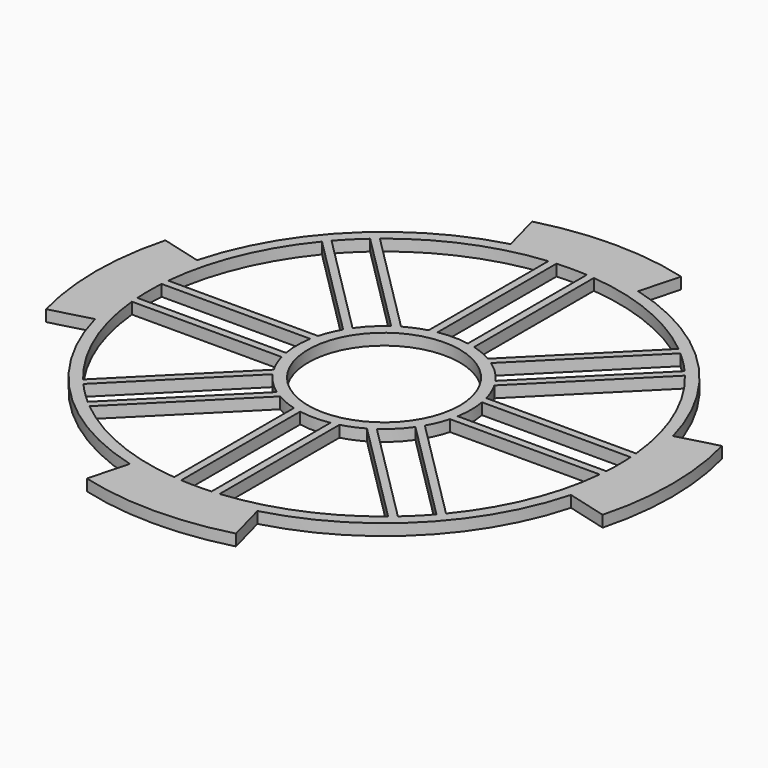
from build123d import *

# Parameters (mm, degrees)
F0_R     = 10
F1_DEPTH = 1.5


with BuildPart() as f1:
    # F0 (on Top) → F1 (new body)
    with BuildSketch(Plane.XY):
        with BuildLine():
            Line((-31.392589, 8.411619), (-36.705181, 9.835124))
            ThreePointArc((-36.705181, 9.835124), (-38, 0), (-36.705181, -9.835124))
            Line((-36.705181, -9.835124), (-31.392589, -8.411619))
            ThreePointArc((-31.392589, -8.411619), (-22.98097, -22.98097), (-8.411619, -31.392589))
            Line((-8.411619, -31.392589), (-9.835124, -36.705181))
            ThreePointArc((-9.835124, -36.705181), (0, -38), (9.835124, -36.705181))
            Line((9.835124, -36.705181), (8.411619, -31.392589))
            ThreePointArc((8.411619, -31.392589), (22.98097, -22.98097), (31.392589, -8.411619))
            Line((31.392589, -8.411619), (36.705181, -9.835124))
            ThreePointArc((36.705181, -9.835124), (38, 0), (36.705181, 9.835124))
            Line((36.705181, 9.835124), (31.392589, 8.411619))
            ThreePointArc((31.392589, 8.411619), (22.98097, 22.98097), (8.411619, 31.392589))
            Line((8.411619, 31.392589), (9.835124, 36.705181))
            ThreePointArc((9.835124, 36.705181), (0, 38), (-9.835124, 36.705181))
            Line((-9.835124, 36.705181), (-8.411619, 31.392589))
            ThreePointArc((-8.411619, 31.392589), (-22.98097, 22.98097), (-31.392589, 8.411619))
        make_face()
        with BuildLine():
            Line((-3, -11.101802), (-3, -30.854497))
            ThreePointArc((-3, -30.854497), (-11.863186, -28.640266), (-19.696104, -23.938745))
            Line((-19.696104, -23.938745), (-5.728839, -9.97148))
            ThreePointArc((-5.728839, -9.97148), (-4.400859, -10.624615), (-3, -11.101802))
        make_face(mode=Mode.SUBTRACT)
        with BuildLine():
            ThreePointArc((-23.938745, -19.696104), (-28.640266, -11.863186), (-30.854497, -3))
            Line((-30.854497, -3), (-11.101802, -3))
            ThreePointArc((-11.101802, -3), (-10.624615, -4.400859), (-9.97148, -5.728839))
            Line((-9.97148, -5.728839), (-23.938745, -19.696104))
        make_face(mode=Mode.SUBTRACT)
        with BuildLine():
            ThreePointArc((-20.460429, -23.288856), (-21.92031, -21.92031), (-23.288856, -20.460429))
            Line((-23.288856, -20.460429), (-9.422022, -6.593595))
            ThreePointArc((-9.422022, -6.593595), (-8.131728, -8.131728), (-6.593595, -9.422022))
            Line((-6.593595, -9.422022), (-20.460429, -23.288856))
        make_face(mode=Mode.SUBTRACT)
        with BuildLine():
            ThreePointArc((2, -30.935417), (0, -31), (-2, -30.935417))
            Line((-2, -30.935417), (-2, -11.324752))
            ThreePointArc((-2, -11.324752), (0, -11.5), (2, -11.324752))
            Line((2, -11.324752), (2, -30.935417))
        make_face(mode=Mode.SUBTRACT)
        with BuildLine():
            ThreePointArc((19.696104, -23.938745), (11.863186, -28.640266), (3, -30.854497))
            Line((3, -30.854497), (3, -11.101802))
            ThreePointArc((3, -11.101802), (4.400859, -10.624615), (5.728839, -9.97148))
            Line((5.728839, -9.97148), (19.696104, -23.938745))
        make_face(mode=Mode.SUBTRACT)
        with BuildLine():
            ThreePointArc((23.288856, -20.460429), (21.92031, -21.92031), (20.460429, -23.288856))
            Line((20.460429, -23.288856), (6.593595, -9.422022))
            ThreePointArc((6.593595, -9.422022), (8.131728, -8.131728), (9.422022, -6.593595))
            Line((9.422022, -6.593595), (23.288856, -20.460429))
        make_face(mode=Mode.SUBTRACT)
        with BuildLine():
            Line((11.101802, -3), (30.854497, -3))
            ThreePointArc((30.854497, -3), (28.640266, -11.863186), (23.938745, -19.696104))
            Line((23.938745, -19.696104), (9.97148, -5.728839))
            ThreePointArc((9.97148, -5.728839), (10.624615, -4.400859), (11.101802, -3))
        make_face(mode=Mode.SUBTRACT)
        with BuildLine():
            ThreePointArc((-30.935417, -2), (-31, 0), (-30.935417, 2))
            Line((-30.935417, 2), (-11.324752, 2))
            ThreePointArc((-11.324752, 2), (-11.5, 0), (-11.324752, -2))
            Line((-11.324752, -2), (-30.935417, -2))
        make_face(mode=Mode.SUBTRACT)
        with BuildLine():
            Line((-11.101802, 3), (-30.854497, 3))
            ThreePointArc((-30.854497, 3), (-28.640266, 11.863186), (-23.938745, 19.696104))
            Line((-23.938745, 19.696104), (-9.97148, 5.728839))
            ThreePointArc((-9.97148, 5.728839), (-10.624615, 4.400859), (-11.101802, 3))
        make_face(mode=Mode.SUBTRACT)
        with BuildLine():
            ThreePointArc((-23.288856, 20.460429), (-21.92031, 21.92031), (-20.460429, 23.288856))
            Line((-20.460429, 23.288856), (-6.593595, 9.422022))
            ThreePointArc((-6.593595, 9.422022), (-8.131728, 8.131728), (-9.422022, 6.593595))
            Line((-9.422022, 6.593595), (-23.288856, 20.460429))
        make_face(mode=Mode.SUBTRACT)
        with BuildLine():
            ThreePointArc((-19.696104, 23.938745), (-11.863186, 28.640266), (-3, 30.854497))
            Line((-3, 30.854497), (-3, 11.101802))
            ThreePointArc((-3, 11.101802), (-4.400859, 10.624615), (-5.728839, 9.97148))
            Line((-5.728839, 9.97148), (-19.696104, 23.938745))
        make_face(mode=Mode.SUBTRACT)
        Circle(F0_R, mode=Mode.SUBTRACT)
        with BuildLine():
            ThreePointArc((20.460429, 23.288856), (21.92031, 21.92031), (23.288856, 20.460429))
            Line((23.288856, 20.460429), (9.422022, 6.593595))
            ThreePointArc((9.422022, 6.593595), (8.131728, 8.131728), (6.593595, 9.422022))
            Line((6.593595, 9.422022), (20.460429, 23.288856))
        make_face(mode=Mode.SUBTRACT)
        with BuildLine():
            ThreePointArc((30.935417, 2), (31, 0), (30.935417, -2))
            Line((30.935417, -2), (11.324752, -2))
            ThreePointArc((11.324752, -2), (11.5, 0), (11.324752, 2))
            Line((11.324752, 2), (30.935417, 2))
        make_face(mode=Mode.SUBTRACT)
        with BuildLine():
            ThreePointArc((23.938745, 19.696104), (28.640266, 11.863186), (30.854497, 3))
            Line((30.854497, 3), (11.101802, 3))
            ThreePointArc((11.101802, 3), (10.624615, 4.400859), (9.97148, 5.728839))
            Line((9.97148, 5.728839), (23.938745, 19.696104))
        make_face(mode=Mode.SUBTRACT)
        with BuildLine():
            Line((2, 30.935417), (2, 11.324752))
            ThreePointArc((2, 11.324752), (0, 11.5), (-2, 11.324752))
            Line((-2, 11.324752), (-2, 30.935417))
            ThreePointArc((-2, 30.935417), (0, 31), (2, 30.935417))
        make_face(mode=Mode.SUBTRACT)
        with BuildLine():
            Line((3, 11.101802), (3, 30.854497))
            ThreePointArc((3, 30.854497), (11.863186, 28.640266), (19.696104, 23.938745))
            Line((19.696104, 23.938745), (5.728839, 9.97148))
            ThreePointArc((5.728839, 9.97148), (4.400859, 10.624615), (3, 11.101802))
        make_face(mode=Mode.SUBTRACT)
    extrude(amount=F1_DEPTH)


solid = f1.part
